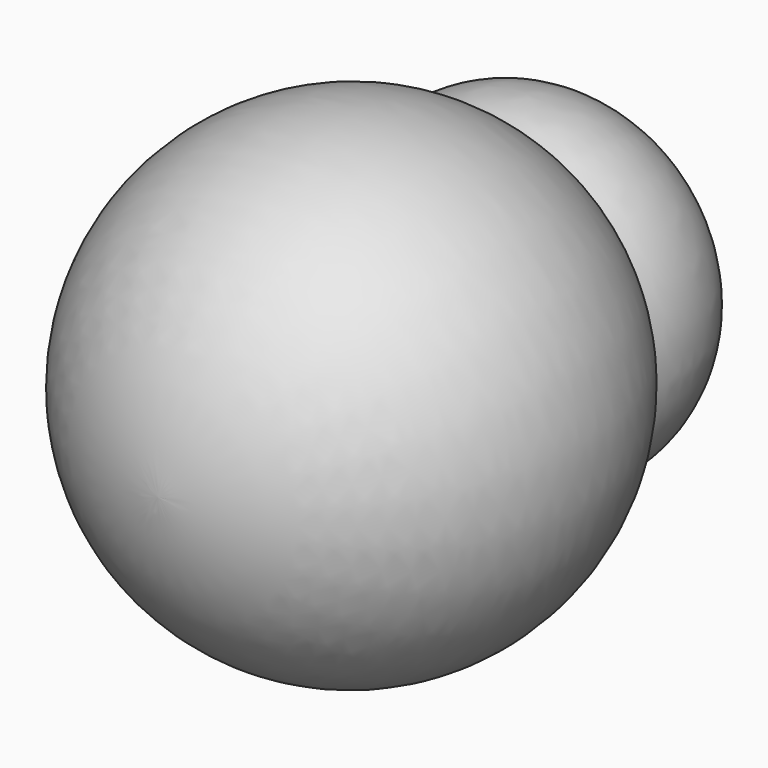
from build123d import *


with BuildPart() as f1:
    # F0 (on Top) → F1 (revolve)
    with BuildSketch(Plane.XY):
        with BuildLine():
            ThreePointArc((36.500387, 41.980901), (28.65632, 70.29144), (0, 76.759152))
            Line((0, 76.759152), (0, 57.050727))
            ThreePointArc((0, 57.050727), (19.681621, 52.982852), (36.500387, 41.980901))
        make_face()
        with BuildLine():
            ThreePointArc((36.500387, 41.980901), (19.681621, 52.982852), (0, 57.050727))
            Line((0, 57.050727), (0, 22.405386))
            ThreePointArc((0, 22.405386), (22.443618, 24.374111), (36.500387, 41.980901))
        make_face()
        with BuildLine():
            ThreePointArc((0, -50.619528), (49.225512, -16.52888), (36.500387, 41.980901))
            ThreePointArc((36.500387, 41.980901), (22.443618, 24.374111), (0, 22.405386))
            Line((0, 22.405386), (0, -50.619528))
        make_face()
    revolve(axis=Axis((0, -8.609463, 0), (0, -1, 0)))


solid = f1.part
